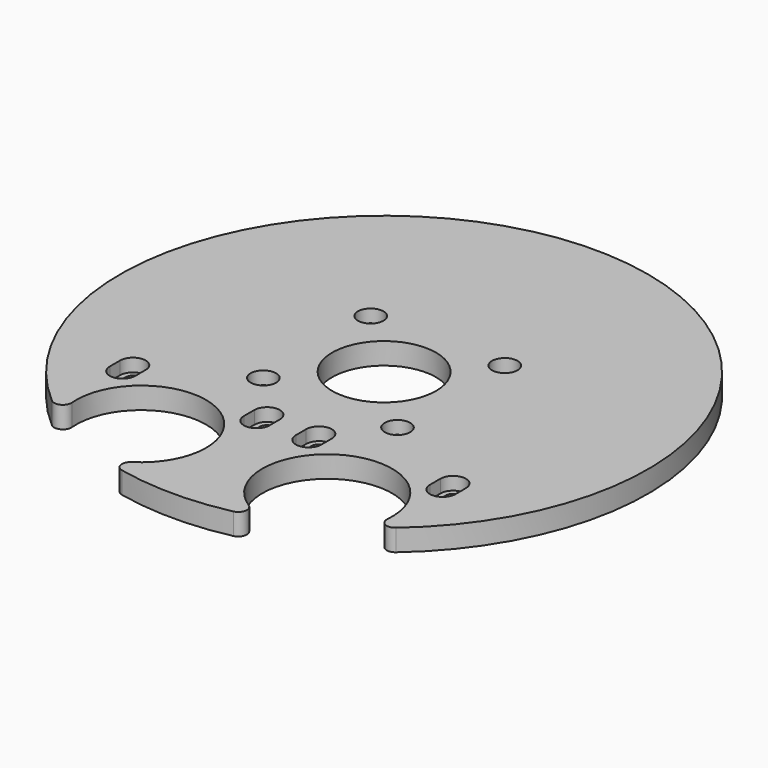
from build123d import *

# Parameters (mm, degrees)
SKETCH_R        = 12
PAD_DEPTH       = 5
SKETCH001_R     = 1.7
POCKET_DEPTH    = 5.001
SKETCH002_R     = 2.95
POCKET001_DEPTH = 3


with BuildPart() as part:
    # Sketch → Pad (new body)
    with BuildSketch(Plane.XY):
        with BuildLine():
            ThreePointArc((-12.84829, -59.631547), (0, -61), (12.84829, -59.631547))
            ThreePointArc((12.84829, -59.631547), (14.396356, -58.025377), (13.494442, -55.985072))
            ThreePointArc((36.444465, -44.589564), (14.829055, -29.865027), (13.494442, -55.985072))
            ThreePointArc((36.444465, -44.589564), (37.524744, -46.541304), (39.740011, -46.278845))
            ThreePointArc((39.740011, -46.278845), (0, 61), (-39.740011, -46.278845))
            ThreePointArc((-39.740011, -46.278845), (-37.524744, -46.541304), (-36.444465, -44.589564))
            ThreePointArc((-13.494442, -55.985072), (-14.829055, -29.865027), (-36.444465, -44.589564))
            ThreePointArc((-13.494442, -55.985072), (-14.396356, -58.025377), (-12.84829, -59.631547))
        make_face()
        Circle(SKETCH_R, mode=Mode.SUBTRACT)
    extrude(amount=PAD_DEPTH)

    # Sketch001 (on Face11 of Pad) → Pocket (cut, through all)
    with BuildSketch(Plane.XY.offset(5)):
        with Locations((15.5, 15.5)):
            Circle(SKETCH001_R)
        with Locations((15.5, -15.5)):
            Circle(SKETCH001_R)
        with Locations((-15.5, -15.5)):
            Circle(SKETCH001_R)
        with Locations((-15.5, 15.5)):
            Circle(SKETCH001_R)
        with BuildLine():
            ThreePointArc((-38.7, -29.3), (-37, -31), (-35.3, -29.3))
            Line((-35.3, -29.3), (-35.3, -26.3))
            ThreePointArc((-35.3, -26.3), (-37, -24.6), (-38.7, -26.3))
            Line((-38.7, -29.3), (-38.7, -26.3))
        make_face()
        with BuildLine():
            ThreePointArc((-7.7, -29.3), (-6, -31), (-4.3, -29.3))
            Line((-4.3, -29.3), (-4.3, -26.3))
            ThreePointArc((-4.3, -26.3), (-6, -24.6), (-7.7, -26.3))
            Line((-7.7, -29.3), (-7.7, -26.3))
        make_face()
        with BuildLine():
            ThreePointArc((7.7, -26.3), (6, -24.6), (4.3, -26.3))
            Line((4.3, -26.3), (4.3, -29.3))
            ThreePointArc((4.3, -29.3), (6, -31), (7.7, -29.3))
            Line((7.7, -26.3), (7.7, -29.3))
        make_face()
        with BuildLine():
            ThreePointArc((38.7, -26.3), (37, -24.6), (35.3, -26.3))
            Line((35.3, -26.3), (35.3, -29.3))
            ThreePointArc((35.3, -29.3), (37, -31), (38.7, -29.3))
            Line((38.7, -26.3), (38.7, -29.3))
        make_face()
    extrude(amount=-POCKET_DEPTH, mode=Mode.SUBTRACT)

    # Sketch002 (on Face5 of Pocket) → Pocket001 (cut)
    with BuildSketch(Plane.XY.offset(5)):
        with Locations((15.5, 15.5)):
            Circle(SKETCH002_R)
        with Locations((-15.5, 15.5)):
            Circle(SKETCH002_R)
        with Locations((-15.5, -15.5)):
            Circle(SKETCH002_R)
        with Locations((15.5, -15.5)):
            Circle(SKETCH002_R)
        with BuildLine():
            ThreePointArc((39.95, -26.3), (37, -23.35), (34.05, -26.3))
            Line((34.05, -26.3), (34.05, -29.3))
            ThreePointArc((34.05, -29.3), (37, -32.25), (39.95, -29.3))
            Line((39.95, -26.3), (39.95, -29.3))
        make_face()
        with BuildLine():
            ThreePointArc((8.95, -26.3), (6, -23.35), (3.05, -26.3))
            Line((3.05, -26.3), (3.05, -29.3))
            ThreePointArc((3.05, -29.3), (6, -32.25), (8.95, -29.3))
            Line((8.95, -26.3), (8.95, -29.3))
        make_face()
        with BuildLine():
            ThreePointArc((-3.05, -26.3), (-6, -23.35), (-8.95, -26.3))
            Line((-8.95, -26.3), (-8.95, -29.3))
            ThreePointArc((-8.95, -29.3), (-6, -32.25), (-3.05, -29.3))
            Line((-3.05, -26.3), (-3.05, -29.3))
        make_face()
        with BuildLine():
            ThreePointArc((-34.05, -26.3), (-37, -23.35), (-39.95, -26.3))
            Line((-39.95, -26.3), (-39.95, -29.3))
            ThreePointArc((-39.95, -29.3), (-37, -32.25), (-34.05, -29.3))
            Line((-34.05, -26.3), (-34.05, -29.3))
        make_face()
    extrude(amount=-POCKET001_DEPTH, mode=Mode.SUBTRACT)


solid = part.part
